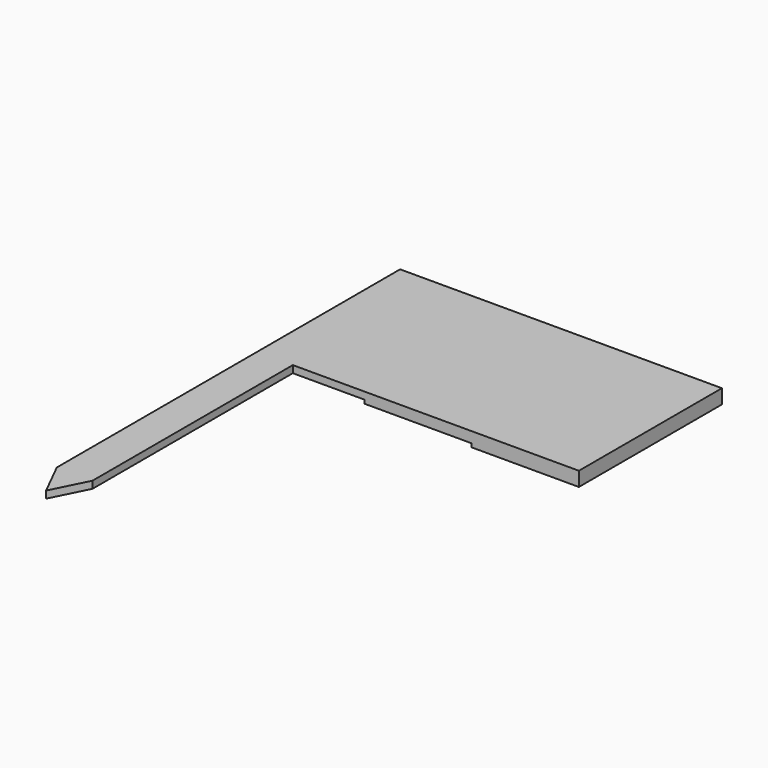
from build123d import *

# Parameters (mm, degrees)
F1_DEPTH = 2
F0_W     = 30
F0_H     = 50
F2_DEPTH = 3
F3_DEPTH = 4


with BuildPart() as f1:
    # F0 (on Top) → F1 (new body)
    with BuildSketch(Plane.XY):
        Polygon((-17.329822, 20.581069), (-47.329822, 20.581069), (-47.329822, -29.418931), (-47.329822, -99.418931), (-42.329822, -109.418931), (-37.329822, -99.418931), (-37.329822, -29.418931), (-17.329822, -29.418931), align=None)
    extrude(amount=-F1_DEPTH)

    # F0 (on Top) → F2 (join)
    with BuildSketch(Plane.XY):
        with Locations((-2.329822, -4.418931)):
            Rectangle(F0_W, F0_H)
    extrude(amount=-F2_DEPTH)

    # F0 (on Top) → F3 (join)
    with BuildSketch(Plane.XY):
        with Locations((27.670178, -4.418931)):
            Rectangle(F0_W, F0_H)
    extrude(amount=-F3_DEPTH)


solid = f1.part
